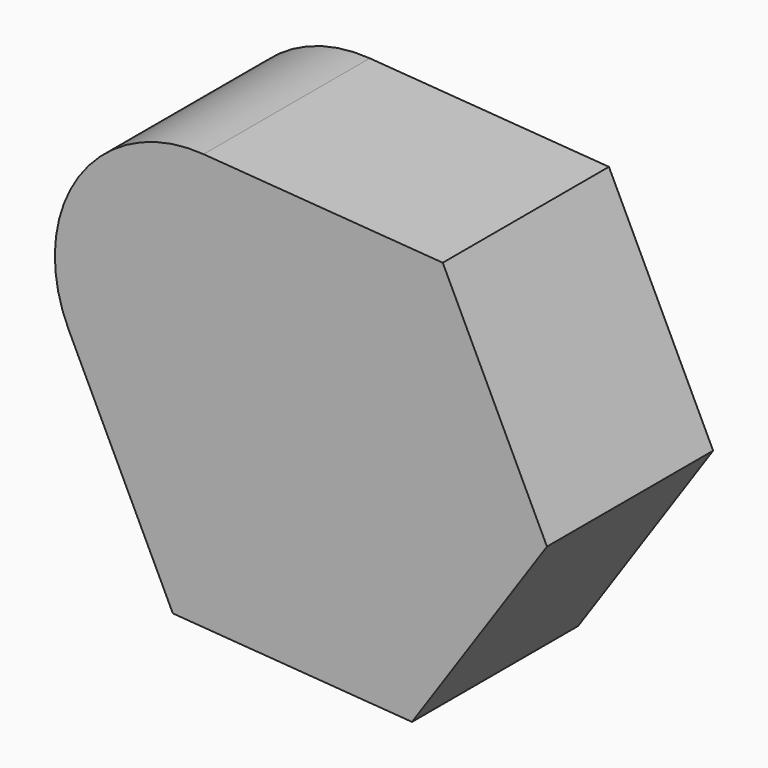
from build123d import *

# Parameters (mm, degrees)
F1_DEPTH = 50.8


with BuildPart() as f1:
    # F0 (on Front) → F1 (new body)
    with BuildSketch(Plane.XZ):
        with BuildLine():
            Line((-86.453595, 4.343704), (-60.966483, -48.488677))
            Line((-60.966483, -48.488677), (-2.468743, -52.832381))
            Line((-2.468743, -52.832381), (30.541885, -4.343704))
            Line((30.541885, -4.343704), (5.054773, 48.488677))
            Line((5.054773, 48.488677), (-53.442967, 52.832381))
            ThreePointArc((-53.442967, 52.832381), (-83.945756, 38.11739), (-86.453595, 4.343704))
        make_face()
    extrude(amount=-F1_DEPTH)


solid = f1.part
